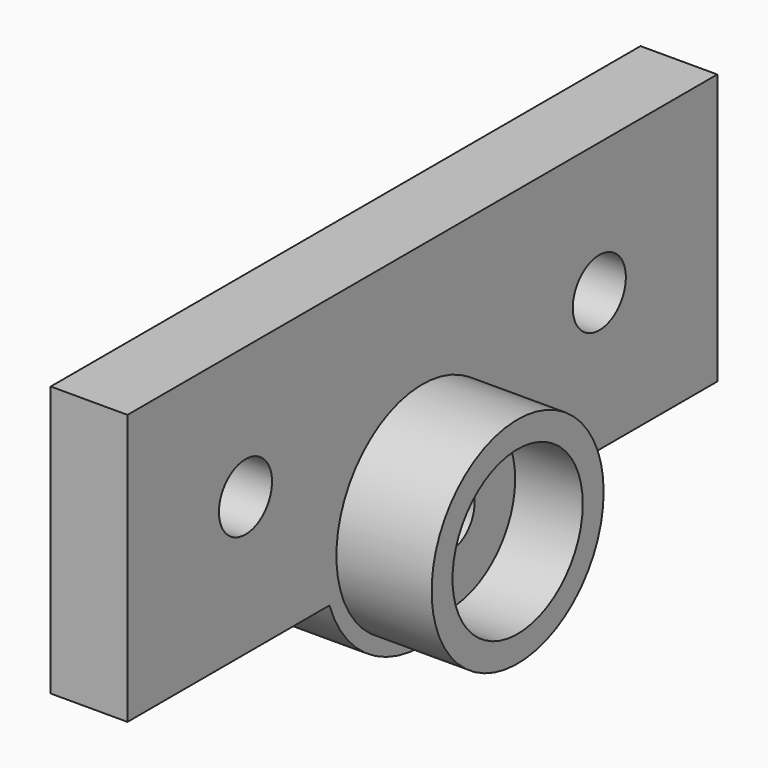
from build123d import *

# Parameters (mm, degrees)
SKETCH_R        = 3.5
SKETCH_R_2      = 5
PAD_DEPTH       = 12.5
SKETCH001_R     = 5.4
POCKET_DEPTH    = 11
SKETCH002_R     = 13.25
POCKET001_DEPTH = 11.1
SKETCH003_R     = 17.5
SKETCH003_R_2   = 5
PAD001_DEPTH    = 15.5
SKETCH004_R     = 13.25
POCKET002_DEPTH = 11


with BuildPart() as part:
    # Sketch → Pad (new body)
    with BuildSketch(Plane.YZ):
        with BuildLine():
            Line((-18.91428, -44), (-60, -44))
            Line((-60, -44), (-60, 0))
            Line((-60, 0), (60, 0))
            Line((60, 0), (60, -44))
            Line((60, -44), (18.91428, -44))
            ThreePointArc((-18.91428, -44), (0, -57.5), (18.91428, -44))
        make_face()
        with Locations((-36, -21.5)):
            Circle(SKETCH_R, mode=Mode.SUBTRACT)
        with Locations((36, -21.5)):
            Circle(SKETCH_R, mode=Mode.SUBTRACT)
        with Locations((0, -37.5)):
            Circle(SKETCH_R_2, mode=Mode.SUBTRACT)
    extrude(amount=PAD_DEPTH)

    # Sketch001 → Pocket (cut)
    with BuildSketch(Plane.YZ.offset(12.5)):
        with Locations((-36, -21.5)):
            Circle(SKETCH001_R)
        with Locations((36, -21.5)):
            Circle(SKETCH001_R)
    extrude(amount=-POCKET_DEPTH, mode=Mode.SUBTRACT)

    # Sketch002 → Pocket001 (cut)
    with BuildSketch(Plane(origin=(0, 0, 0), x_dir=(0, 1, 0), z_dir=(-1, 0, 0))):
        with Locations((0, 37.5)):
            Circle(SKETCH002_R)
    extrude(amount=-POCKET001_DEPTH, mode=Mode.SUBTRACT)

    # Sketch003 → Pad001 (new body)
    with BuildSketch(Plane.YZ.offset(12.5)):
        with Locations((0, -37.5)):
            Circle(SKETCH003_R)
        with Locations((0, -37.5)):
            Circle(SKETCH003_R_2, mode=Mode.SUBTRACT)
    extrude(amount=PAD001_DEPTH)

    # Sketch004 → Pocket002 (cut)
    with BuildSketch(Plane.YZ.offset(28)):
        with Locations((0, -37.5)):
            Circle(SKETCH004_R)
    extrude(amount=-POCKET002_DEPTH, mode=Mode.SUBTRACT)


solid = part.part
